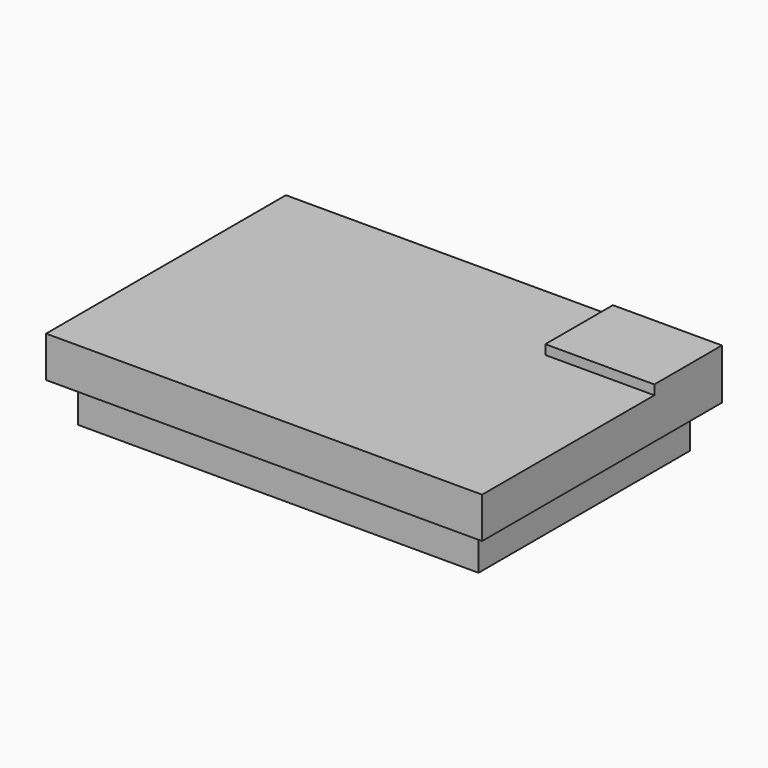
from build123d import *

# Parameters (mm, degrees)
F0_W     = 3200
F0_H     = 2200
F1_DEPTH = 300
F2_W     = 2940.000058
F2_H     = 1940.000058
F3_DEPTH = 300
F4_W     = 800
F4_H     = 620
F5_DEPTH = 70


with BuildPart() as f1:
    # F0 (on Top) → F1 (new body)
    with BuildSketch(Plane.XY):
        Rectangle(F0_W, F0_H)
    extrude(amount=-F1_DEPTH)

    # F2 (on face) → F3 (join)
    with BuildSketch(Plane(origin=(0, 0, -300), x_dir=(1, 0, 0), z_dir=(0, 0, -1))):
        Rectangle(F2_W, F2_H)
    extrude(amount=F3_DEPTH)

    # F4 (on face) → F5 (join)
    with BuildSketch(Plane.XY):
        with Locations((1200, 790)):
            Rectangle(F4_W, F4_H)
    extrude(amount=F5_DEPTH)


solid = f1.part
